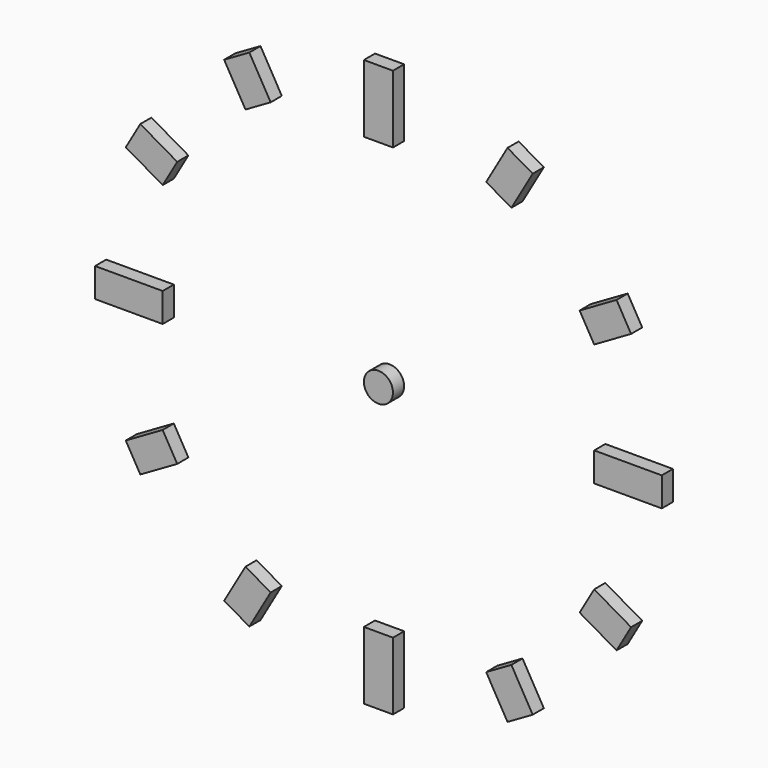
from build123d import *

# Parameters (mm, degrees)
F0_W     = 6.262426
F0_H     = 5.377168
F0_H_2   = 9.178328
F0_W_2   = 9.178328
F0_H_3   = 6.262426
F0_W_3   = 5.377168
F0_R     = 3.131213
F1_DEPTH = 3


with BuildPart() as f1:
    # F0 (on Front) → F1 (new body)
    with BuildSketch(Plane.XZ):
        with Locations((0, 49.132987)):
            Rectangle(F0_W, F0_H)
        with Locations((0, 56.410735)):
            Rectangle(F0_W, F0_H_2)
        Polygon((-33.211659, 51.261856), (-28.622495, 43.31319), (-23.199076, 46.444403), (-27.78824, 54.393069), align=None)
        Polygon((-54.393069, 27.78824), (-46.444403, 23.199076), (-43.31319, 28.622495), (-51.261856, 33.211659), align=None)
        with Locations((-56.410735, 0)):
            Rectangle(F0_W_2, F0_H_3)
        with Locations((-49.132987, 0)):
            Rectangle(F0_W_3, F0_H_3)
        Polygon((-51.261856, -33.211659), (-43.31319, -28.622495), (-46.444403, -23.199076), (-54.393069, -27.78824), align=None)
        Polygon((-27.78824, -54.393069), (-23.199076, -46.444403), (-28.622495, -43.31319), (-33.211659, -51.261856), align=None)
        with Locations((0, -56.410735)):
            Rectangle(F0_W, F0_H_2)
        with Locations((0, -49.132987)):
            Rectangle(F0_W, F0_H)
        Polygon((33.211659, -51.261856), (28.622495, -43.31319), (23.199076, -46.444403), (27.78824, -54.393069), align=None)
        Polygon((54.393069, -27.78824), (46.444403, -23.199076), (43.31319, -28.622495), (51.261856, -33.211659), align=None)
        with Locations((56.410735, 0)):
            Rectangle(F0_W_2, F0_H_3)
        with Locations((49.132987, 0)):
            Rectangle(F0_W_3, F0_H_3)
        Polygon((51.261856, 33.211659), (43.31319, 28.622495), (46.444403, 23.199076), (54.393069, 27.78824), align=None)
        Polygon((27.78824, 54.393069), (23.199076, 46.444403), (28.622495, 43.31319), (33.211659, 51.261856), align=None)
        Circle(F0_R)
    extrude(amount=F1_DEPTH)


solid = f1.part
